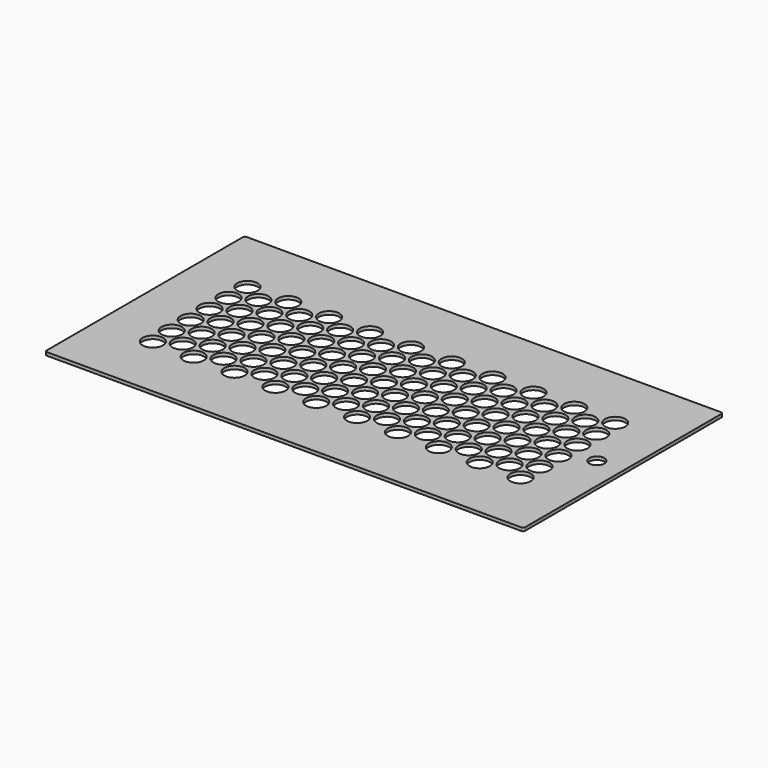
from build123d import *

# Parameters (mm, degrees)
SKETCH_W        = 445
SKETCH_H        = 232
PAD_DEPTH       = 3
SKETCH001_R     = 9.5
POCKET_DEPTH    = 5
FILLET002_R     = 2
SKETCH015_R     = 7
POCKET009_DEPTH = 10.001


with BuildPart() as part:
    # Sketch → Pad (new body)
    with BuildSketch(Plane.XY):
        Rectangle(SKETCH_W, SKETCH_H)
    extrude(amount=PAD_DEPTH)

    # Sketch001 (on Face6 of Pad) → Pocket (cut)
    with BuildSketch(Plane.XY.offset(3)):
        with Locations((-171, 55)):
            Circle(SKETCH001_R)
        with Locations((-171, 33)):
            Circle(SKETCH001_R)
        with Locations((-171, 11)):
            Circle(SKETCH001_R)
        with Locations((-171, -11)):
            Circle(SKETCH001_R)
        with Locations((-171, -33)):
            Circle(SKETCH001_R)
        with Locations((-171, -55)):
            Circle(SKETCH001_R)
        with Locations((-152, 44)):
            Circle(SKETCH001_R)
        with Locations((-152, 22)):
            Circle(SKETCH001_R)
        with Locations((-152, 0)):
            Circle(SKETCH001_R)
        with Locations((-152, -22)):
            Circle(SKETCH001_R)
        with Locations((-152, -44)):
            Circle(SKETCH001_R)
        with Locations((-133, 55)):
            Circle(SKETCH001_R)
        with Locations((-133, 33)):
            Circle(SKETCH001_R)
        with Locations((-133, 11)):
            Circle(SKETCH001_R)
        with Locations((-133, -11)):
            Circle(SKETCH001_R)
        with Locations((-133, -33)):
            Circle(SKETCH001_R)
        with Locations((-133, -55)):
            Circle(SKETCH001_R)
        with Locations((-114, 44)):
            Circle(SKETCH001_R)
        with Locations((-114, 22)):
            Circle(SKETCH001_R)
        with Locations((-114, 0)):
            Circle(SKETCH001_R)
        with Locations((-114, -22)):
            Circle(SKETCH001_R)
        with Locations((-114, -44)):
            Circle(SKETCH001_R)
        with Locations((-95, 55)):
            Circle(SKETCH001_R)
        with Locations((-95, 33)):
            Circle(SKETCH001_R)
        with Locations((-95, 11)):
            Circle(SKETCH001_R)
        with Locations((-95, -11)):
            Circle(SKETCH001_R)
        with Locations((-95, -33)):
            Circle(SKETCH001_R)
        with Locations((-95, -55)):
            Circle(SKETCH001_R)
        with Locations((-76, -44)):
            Circle(SKETCH001_R)
        with Locations((-76, -22)):
            Circle(SKETCH001_R)
        with Locations((-76, 0)):
            Circle(SKETCH001_R)
        with Locations((-76, 22)):
            Circle(SKETCH001_R)
        with Locations((-76, 44)):
            Circle(SKETCH001_R)
        with Locations((-57, 55)):
            Circle(SKETCH001_R)
        with Locations((-57, 33)):
            Circle(SKETCH001_R)
        with Locations((-57, 11)):
            Circle(SKETCH001_R)
        with Locations((-57, -11)):
            Circle(SKETCH001_R)
        with Locations((-57, -33)):
            Circle(SKETCH001_R)
        with Locations((-38, 44)):
            Circle(SKETCH001_R)
        with Locations((-38, 22)):
            Circle(SKETCH001_R)
        with Locations((-38, 0)):
            Circle(SKETCH001_R)
        with Locations((-38, -22)):
            Circle(SKETCH001_R)
        with Locations((-38, -44)):
            Circle(SKETCH001_R)
        with Locations((-57, -55)):
            Circle(SKETCH001_R)
        with Locations((-19, 55)):
            Circle(SKETCH001_R)
        with Locations((-19, 33)):
            Circle(SKETCH001_R)
        with Locations((-19, 11)):
            Circle(SKETCH001_R)
        with Locations((-19, -11)):
            Circle(SKETCH001_R)
        with Locations((-19, -33)):
            Circle(SKETCH001_R)
        with Locations((-19, -55)):
            Circle(SKETCH001_R)
        with Locations((0, -44)):
            Circle(SKETCH001_R)
        with Locations((0, -22)):
            Circle(SKETCH001_R)
        Circle(SKETCH001_R)
        with Locations((0, 22)):
            Circle(SKETCH001_R)
        with Locations((0, 44)):
            Circle(SKETCH001_R)
        with Locations((19, 55)):
            Circle(SKETCH001_R)
        with Locations((19, 33)):
            Circle(SKETCH001_R)
        with Locations((19, 11)):
            Circle(SKETCH001_R)
        with Locations((19, -11)):
            Circle(SKETCH001_R)
        with Locations((19, -33)):
            Circle(SKETCH001_R)
        with Locations((19, -55)):
            Circle(SKETCH001_R)
        with Locations((38, -44)):
            Circle(SKETCH001_R)
        with Locations((38, -22)):
            Circle(SKETCH001_R)
        with Locations((38, 0)):
            Circle(SKETCH001_R)
        with Locations((38, 22)):
            Circle(SKETCH001_R)
        with Locations((38, 44)):
            Circle(SKETCH001_R)
        with Locations((57, 55)):
            Circle(SKETCH001_R)
        with Locations((57, 33)):
            Circle(SKETCH001_R)
        with Locations((57, 11)):
            Circle(SKETCH001_R)
        with Locations((57, -11)):
            Circle(SKETCH001_R)
        with Locations((76, 0)):
            Circle(SKETCH001_R)
        with Locations((76, 22)):
            Circle(SKETCH001_R)
        with Locations((76, 44)):
            Circle(SKETCH001_R)
        with Locations((57, -33)):
            Circle(SKETCH001_R)
        with Locations((57, -55)):
            Circle(SKETCH001_R)
        with Locations((76, -44)):
            Circle(SKETCH001_R)
        with Locations((76, -22)):
            Circle(SKETCH001_R)
        with Locations((95, 55)):
            Circle(SKETCH001_R)
        with Locations((95, 33)):
            Circle(SKETCH001_R)
        with Locations((95, 11)):
            Circle(SKETCH001_R)
        with Locations((95, -11)):
            Circle(SKETCH001_R)
        with Locations((95, -33)):
            Circle(SKETCH001_R)
        with Locations((95, -55)):
            Circle(SKETCH001_R)
        with Locations((114, 44)):
            Circle(SKETCH001_R)
        with Locations((114, 22)):
            Circle(SKETCH001_R)
        with Locations((114, 0)):
            Circle(SKETCH001_R)
        with Locations((114, -22)):
            Circle(SKETCH001_R)
        with Locations((114, -44)):
            Circle(SKETCH001_R)
        with Locations((133, 55)):
            Circle(SKETCH001_R)
        with Locations((133, 33)):
            Circle(SKETCH001_R)
        with Locations((133, 11)):
            Circle(SKETCH001_R)
        with Locations((133, -11)):
            Circle(SKETCH001_R)
        with Locations((133, -33)):
            Circle(SKETCH001_R)
        with Locations((133, -55)):
            Circle(SKETCH001_R)
        with Locations((152, 44)):
            Circle(SKETCH001_R)
        with Locations((152, 22)):
            Circle(SKETCH001_R)
        with Locations((152, 0)):
            Circle(SKETCH001_R)
        with Locations((152, -22)):
            Circle(SKETCH001_R)
        with Locations((152, -44)):
            Circle(SKETCH001_R)
        with Locations((171, 55)):
            Circle(SKETCH001_R)
        with Locations((171, 33)):
            Circle(SKETCH001_R)
        with Locations((171, 11)):
            Circle(SKETCH001_R)
        with Locations((171, -11)):
            Circle(SKETCH001_R)
        with Locations((171, -33)):
            Circle(SKETCH001_R)
        with Locations((171, -55)):
            Circle(SKETCH001_R)
    extrude(amount=-POCKET_DEPTH, mode=Mode.SUBTRACT)

    # Fillet002
    fillet002_edges = [part.edges().sort_by_distance(p)[0] for p in [
        (-222.5, -116, 1.5),
        (222.5, -116, 1.5),
        (222.5, 116, 1.5),
        (-222.5, 116, 1.5),
    ]]
    fillet(fillet002_edges, radius=FILLET002_R)

    # Sketch015 → Pocket009 (cut, through all)
    with BuildSketch(Plane.XY.offset(10)):
        with Locations((197.939534, 0)):
            Circle(SKETCH015_R)
    extrude(amount=-POCKET009_DEPTH, mode=Mode.SUBTRACT)


solid = part.part
